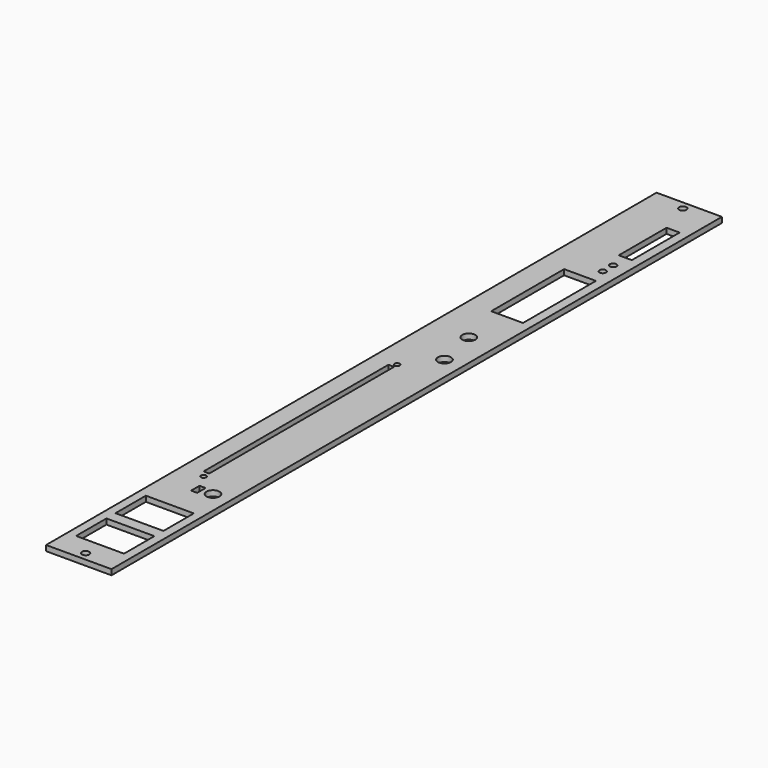
from build123d import *

# Parameters (mm, degrees)
F0_W     = 38.1
F0_H     = 444.5
F0_R     = 1.524
F0_W_2   = 3.302
F0_H_2   = 134.62
F0_R_2   = 2.159
F0_W_3   = 27.94
F0_H_3   = 22.098
F0_W_4   = 3.556
F0_H_4   = 6.096
F0_R_3   = 3.81
F0_W_5   = 18.542
F0_H_5   = 53.086
F0_R_4   = 1.905
F0_W_6   = 7.62
F0_H_6   = 34.798
F1_DEPTH = 3.175


with BuildPart() as f1:
    # F0 (on Top) → F1 (new body)
    with BuildSketch(Plane.XY):
        Rectangle(F0_W, F0_H)
        with Locations((-5.334, -124.714)):
            Circle(F0_R, mode=Mode.SUBTRACT)
        with Locations((-6.731, -53.594)):
            Rectangle(F0_W_2, F0_H_2, mode=Mode.SUBTRACT)
        with Locations((0, -217.297)):
            Circle(F0_R_2, mode=Mode.SUBTRACT)
        with Locations((0, -195.707)):
            Rectangle(F0_W_3, F0_H_3, mode=Mode.SUBTRACT)
        with Locations((0, -167.005)):
            Rectangle(F0_W_3, F0_H_3, mode=Mode.SUBTRACT)
        with Locations((0.762, -136.144)):
            Rectangle(F0_W_4, F0_H_4, mode=Mode.SUBTRACT)
        with Locations((8.89, -135.636)):
            Circle(F0_R_3, mode=Mode.SUBTRACT)
        with Locations((-5.334, 16.256)):
            Circle(F0_R, mode=Mode.SUBTRACT)
        with Locations((8.382, 33.528)):
            Circle(F0_R_3, mode=Mode.SUBTRACT)
        with Locations((3.302, 57.658)):
            Circle(F0_R_3, mode=Mode.SUBTRACT)
        with Locations((4.445, 110.617)):
            Rectangle(F0_W_5, F0_H_5, mode=Mode.SUBTRACT)
        with Locations((0, 217.551)):
            Circle(F0_R_2, mode=Mode.SUBTRACT)
        with Locations((10.287, 146.431)):
            Circle(F0_R_4, mode=Mode.SUBTRACT)
        with Locations((10.287, 154.051)):
            Circle(F0_R_4, mode=Mode.SUBTRACT)
        with Locations((9.906, 180.721)):
            Rectangle(F0_W_6, F0_H_6, mode=Mode.SUBTRACT)
    extrude(amount=F1_DEPTH)


solid = f1.part
